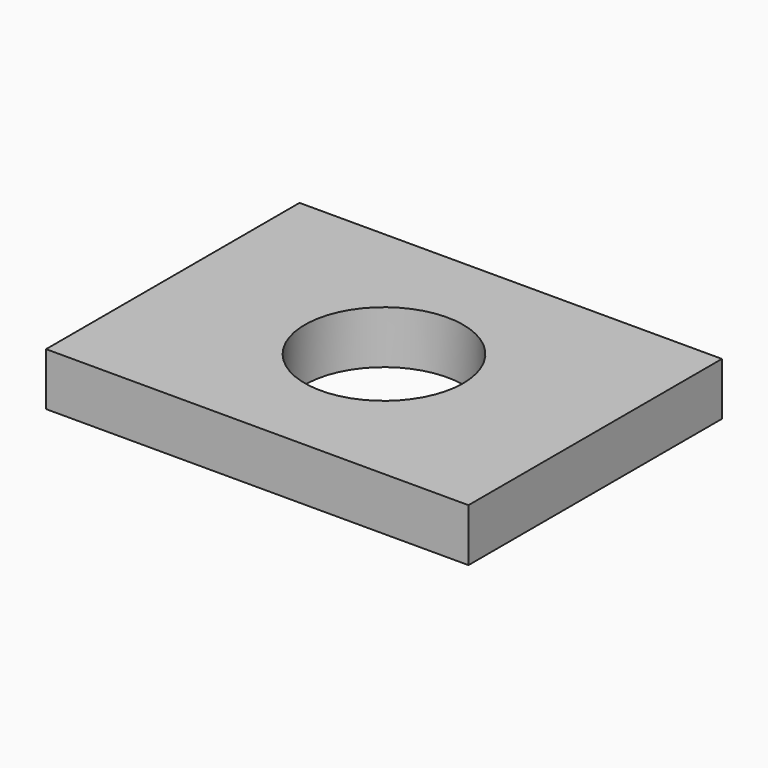
from build123d import *

# Parameters (mm, degrees)
F0_R     = 15
F1_DEPTH = 10


with BuildPart() as f1:
    # F0 (on Top) → F1 (new body)
    with BuildSketch(Plane.XY):
        Polygon((40, -30), (40, 0), (40, 30), (0, 30), (-40, 30), (-40, 0), (-40, -30), align=None)
        Circle(F0_R, mode=Mode.SUBTRACT)
    extrude(amount=F1_DEPTH)


solid = f1.part
